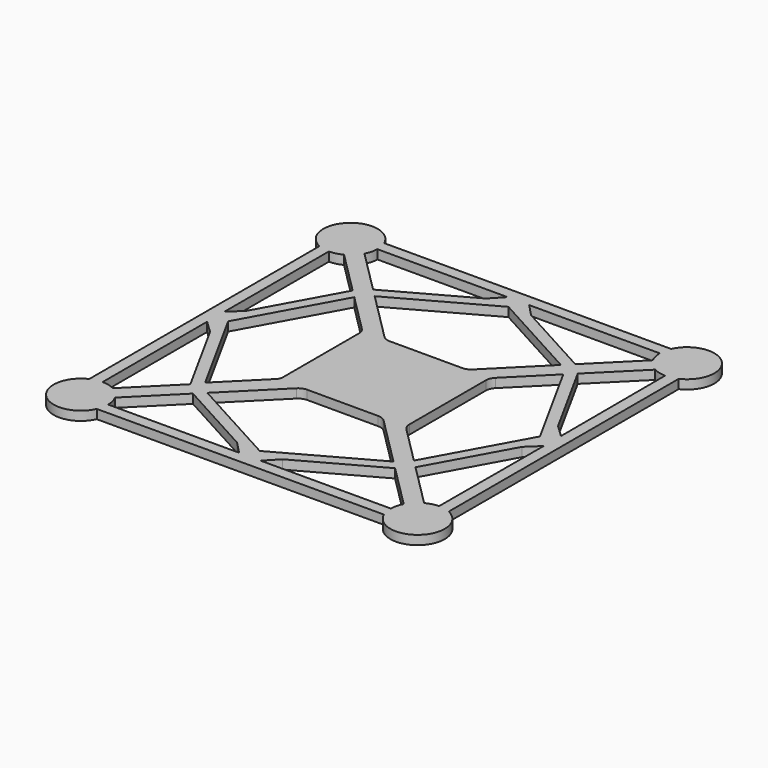
from build123d import *

# Parameters (mm, degrees)
F1_DEPTH = 4


with BuildPart() as f1:
    # F0 (on Top) → F1 (new body)
    with BuildSketch(Plane.XY):
        with BuildLine():
            Line((99.202662, 19.896773), (99.202662, 83.293949))
            ThreePointArc((99.202662, 83.293949), (102.639271, 102.736338), (83.237467, 99.077547))
            Line((83.237467, 99.077547), (19.823141, 99.077547))
            Line((19.823141, 99.077547), (-43.277989, 98.971398))
            ThreePointArc((-43.277989, 98.971398), (-62.685056, 102.776986), (-59.289763, 83.293949))
            Line((-59.289763, 83.293949), (-59.289763, 19.831447))
            Line((-59.289763, 19.831447), (-59.289763, -43.656712))
            ThreePointArc((-59.289763, -43.656712), (-62.72245, -63.080861), (-43.329186, -59.477778))
            Line((-43.329186, -59.477778), (83.190888, -59.221403))
            ThreePointArc((83.190888, -59.221403), (102.597955, -63.026992), (99.202662, -43.543955))
            Line((99.202662, -43.543955), (99.202662, 19.853222))
            Line((99.202662, 19.853222), (99.202662, 19.896773))
        make_face()
        with BuildLine():
            ThreePointArc((-42.274781, -54.475997), (-42.640605, -51.616895), (-43.677664, -48.927507))
            Line((-43.677664, -48.927507), (-24.605699, -29.855542))
            Line((-24.605699, -29.855542), (10.1243, -48.890038))
            Line((10.1243, -48.890038), (15.366075, -54.379034))
            Line((15.366075, -54.379034), (-42.274781, -54.475997))
        make_face(mode=Mode.SUBTRACT)
        with BuildLine():
            Line((-29.65462, -24.938536), (-48.66586, -43.949777))
            ThreePointArc((-48.66586, -43.949777), (-51.392585, -42.909613), (-54.289763, -42.558424))
            Line((-54.289763, -42.558424), (-54.289763, -42.539768))
            Line((-54.289763, -42.539768), (-54.289763, 15.079639))
            Line((-54.289763, 15.079639), (-48.808765, 9.87071))
            Line((-48.808765, 9.87071), (-29.65462, -24.938536))
        make_face(mode=Mode.SUBTRACT)
        with BuildLine():
            Line((20.115596, -48.890038), (-21.068434, -26.318277))
            Line((-21.068434, -26.318277), (0.785377, -4.464466))
            ThreePointArc((0.785377, -4.464466), (2.407493, -3.380602), (4.320911, -3))
            Line((4.320911, -3), (35.678927, -3))
            ThreePointArc((35.678927, -3), (37.592344, -3.380602), (39.214461, -4.464466))
            Line((39.214461, -4.464466), (61.034324, -26.284329))
            Line((61.034324, -26.284329), (20.115596, -48.890038))
        make_face(mode=Mode.SUBTRACT)
        with BuildLine():
            Line((64.568139, -29.818144), (83.594024, -48.844029))
            ThreePointArc((83.594024, -48.844029), (82.583872, -51.452044), (82.204858, -54.223054))
            Line((82.204858, -54.223054), (24.869697, -54.363046))
            Line((24.869697, -54.363046), (30.045989, -48.890038))
            Line((30.045989, -48.890038), (64.568139, -29.818144))
        make_face(mode=Mode.SUBTRACT)
        with BuildLine():
            Line((20.061165, 4.731285), (20.02865, 4.750027))
            ThreePointArc((20.02865, 4.750027), (20.061339, 4.750123), (20.094027, 4.75029))
            Line((20.094027, 4.75029), (20.061165, 4.731285))
        make_face(mode=Mode.SUBTRACT)
        with BuildLine():
            ThreePointArc((94.058243, -42.453536), (91.243307, -42.823298), (88.594024, -43.844029))
            Line((88.594024, -43.844029), (69.601331, -24.851336))
            Line((69.601331, -24.851336), (88.739303, 9.928519))
            Line((88.739303, 9.928519), (94.211702, 15.119198))
            Line((94.211702, 15.119198), (94.058243, -42.453536))
        make_face(mode=Mode.SUBTRACT)
        with BuildLine():
            Line((-8.87868, -3.300258), (-26.42517, -20.846748))
            Line((-26.42517, -20.846748), (-48.808765, 19.831447))
            Line((-48.808765, 19.831447), (-26.131123, 61.044022))
            Line((-26.131123, 61.044022), (-9.464466, 44.377365))
            ThreePointArc((-9.464466, 44.377365), (-8.380602, 42.755248), (-8, 40.841831))
            Line((-8, 40.841831), (-8, -1.178937))
            ThreePointArc((-8, -1.178937), (-8.228361, -2.326988), (-8.87868, -3.300258))
        make_face(mode=Mode.SUBTRACT)
        with BuildLine():
            Line((-48.681125, 83.594024), (-29.666657, 64.579555))
            Line((-29.666657, 64.579555), (-48.808765, 29.792184))
            Line((-48.808765, 29.792184), (-54.289763, 24.583255))
            Line((-54.289763, 24.583255), (-54.289763, 82.202662))
            ThreePointArc((-54.289763, 82.202662), (-51.400442, 82.555695), (-48.681125, 83.594024))
        make_face(mode=Mode.SUBTRACT)
        with BuildLine():
            Line((9.91038, 88.596564), (-24.61177, 69.524669))
            Line((-24.61177, 69.524669), (-43.681125, 88.594024))
            ThreePointArc((-43.681125, 88.594024), (-42.670973, 91.202039), (-42.291959, 93.973049))
            Line((-42.291959, 93.973049), (15.086671, 94.069572))
            Line((15.086671, 94.069572), (9.91038, 88.596564))
        make_face(mode=Mode.SUBTRACT)
        with BuildLine():
            Line((49.464466, 44.464466), (66.065797, 61.065797))
            Line((66.065797, 61.065797), (88.731457, 19.874997))
            Line((88.731457, 19.874997), (66.065797, -21.315802))
            Line((66.065797, -21.315802), (49.464466, -4.714471))
            ThreePointArc((49.464466, -4.714471), (48.380602, -3.092354), (48, -1.178937))
            Line((48, -1.178937), (48, 40.928932))
            ThreePointArc((48, 40.928932), (48.380602, 42.842349), (49.464466, 44.464466))
        make_face(mode=Mode.SUBTRACT)
        with BuildLine():
            Line((69.601331, 64.601331), (88.594024, 83.594024))
            ThreePointArc((88.594024, 83.594024), (91.243307, 82.573293), (94.058243, 82.203531))
            Line((94.058243, 82.203531), (94.211768, 24.606251))
            Line((94.211768, 24.606251), (88.743439, 29.813959))
            Line((88.743439, 29.813959), (69.601331, 64.601331))
        make_face(mode=Mode.SUBTRACT)
        with BuildLine():
            Line((19.840772, 88.596564), (61.024802, 66.024802))
            Line((61.024802, 66.024802), (39.464466, 44.464466))
            ThreePointArc((39.464466, 44.464466), (37.842349, 43.380602), (35.928932, 43))
            Line((35.928932, 43), (3.983967, 43))
            ThreePointArc((3.983967, 43), (2.07055, 43.380602), (0.448433, 44.464466))
            Line((0.448433, 44.464466), (-21.077956, 65.990855))
            Line((-21.077956, 65.990855), (19.840772, 88.596564))
        make_face(mode=Mode.SUBTRACT)
        with BuildLine():
            ThreePointArc((82.203158, 94.093463), (82.568962, 91.260377), (83.594024, 88.594024))
            Line((83.594024, 88.594024), (64.562068, 69.562068))
            Line((64.562068, 69.562068), (29.832068, 88.596564))
            Line((29.832068, 88.596564), (24.590293, 94.085559))
            Line((24.590293, 94.085559), (82.203158, 94.093463))
        make_face(mode=Mode.SUBTRACT)
    extrude(amount=F1_DEPTH)


solid = f1.part
